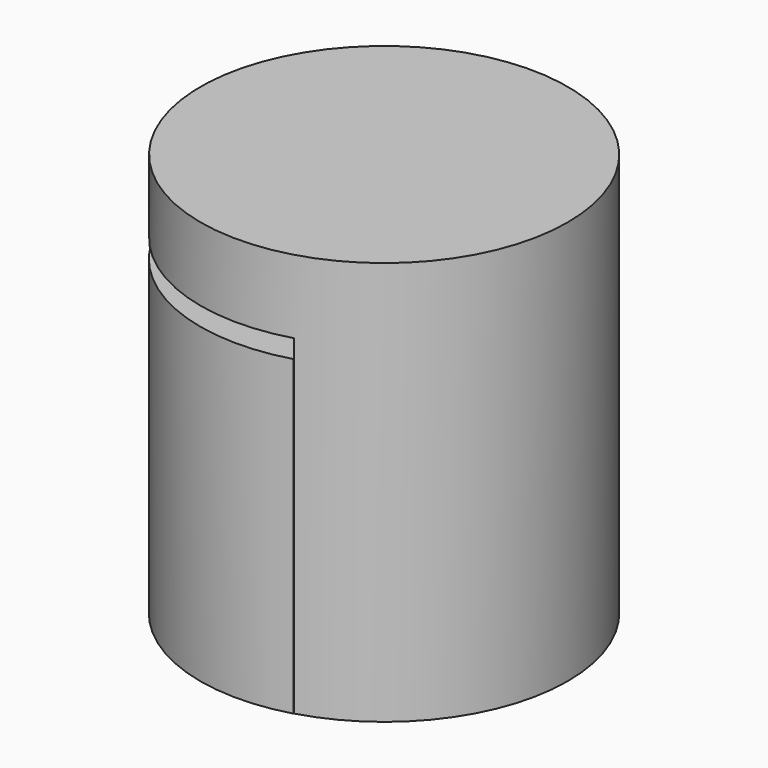
from build123d import *

# Parameters (mm, degrees)
F0_R     = 10
F1_DEPTH = 22
F3_D     = 13
F3_DEPTH = 17
F3_TIP   = 3.9055940237
F5_DEPTH = 18
F6_DEPTH = 17


with BuildPart() as f1:
    # F0 (on Top) → F1 (new body)
    with BuildSketch(Plane.XY):
        Circle(F0_R)
    extrude(amount=F1_DEPTH)

    # F3
    with Locations(Plane(origin=(0, 0, 0), x_dir=(1, 0, 0), z_dir=(0, 0, -1))):
        with Locations((0, 0)):
            Hole(F3_D / 2, depth=F3_DEPTH)
            with Locations((0, 0, -(F3_DEPTH + F3_TIP / 2))):  # 118° drill point
                Cone(0, F3_D / 2, F3_TIP, mode=Mode.SUBTRACT)

    # F4 (on Top) → F5 (cut)
    with BuildSketch(Plane.XY):
        with BuildLine():
            Line((2.770723775, -9.6206208691), (2.770723775, -5.7840836234))
            ThreePointArc((2.770723775, -5.7840836234), (-4.5716731582, -4.4980371424), (-5.7383336819, 2.8642730588))
            Line((-5.7383336819, 2.8642730588), (-9.7194789065, 2.401038511))
            ThreePointArc((-9.7194789065, 2.401038511), (-6.9427208666, -7.2133129083), (2.770723775, -9.6206208691))
        make_face()
    extrude(amount=F5_DEPTH, mode=Mode.SUBTRACT)

    # F4 (on Top) → F6 (join)
    with BuildSketch(Plane.XY):
        with BuildLine():
            Line((2.770723775, -9.6206208691), (2.770723775, -5.7840836234))
            ThreePointArc((2.770723775, -5.7840836234), (-4.5716731582, -4.4980371424), (-5.7383336819, 2.8642730588))
            Line((-5.7383336819, 2.8642730588), (-9.7194789065, 2.401038511))
            ThreePointArc((-9.7194789065, 2.401038511), (-6.9427208666, -7.2133129083), (2.770723775, -9.6206208691))
        make_face()
    extrude(amount=F6_DEPTH)


solid = f1.part
